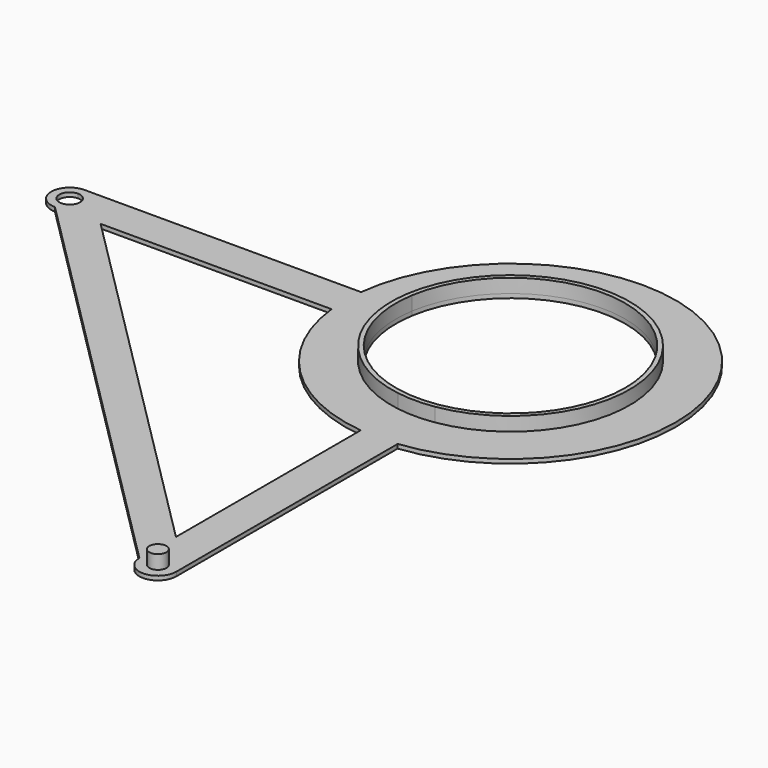
from build123d import *

# Parameters (mm, degrees)
F1_DEPTH = 0.9
F2_DEPTH = 3
F3_DEPTH = 3


with BuildPart() as f1:
    # F0 (on Top) → F1 (new body)
    with BuildSketch(Plane.XY):
        with BuildLine():
            Line((-35.5758344948, 4), (-95.5, 4))
            ThreePointArc((-95.5, 4), (-92.6715728753, 2.8284271247), (-91.5, 0))
            ThreePointArc((-91.5, 0), (-92.6715728753, -2.8284271247), (-95.5, -4))
            Line((-95.5, -4), (-85.6005050634, -4))
            Line((-85.6005050634, -4), (-35.5758344948, -4))
            ThreePointArc((-35.5758344948, -4), (-35.8, 0), (-35.5758344948, 4))
        make_face()
        with BuildLine():
            ThreePointArc((-95.5, 2.25), (-93.9090097423, 1.5909902577), (-93.25, 0))
            ThreePointArc((-93.25, 0), (-93.9090097423, -1.5909902577), (-95.5, -2.25))
            Line((-95.5, -2.25), (-95.5, -4))
            ThreePointArc((-95.5, -4), (-92.6715728753, -2.8284271247), (-91.5, 0))
            ThreePointArc((-91.5, 0), (-92.6715728753, 2.8284271247), (-95.5, 4))
            Line((-95.5, 4), (-95.5, 2.25))
        make_face()
        with BuildLine():
            ThreePointArc((-95.5, -2.25), (-97.75, 0), (-95.5, 2.25))
            Line((-95.5, 2.25), (-95.5, 4))
            ThreePointArc((-95.5, 4), (-99.5, 0), (-95.5, -4))
            Line((-95.5, -4), (-95.5, -2.25))
        make_face()
        Polygon((-85.6005050634, -4), (-95.5, -4), (-4, -95.5), (-4, -85.6005050634), align=None)
        with BuildLine():
            Line((-1.85, -95.5), (-4, -95.5))
            ThreePointArc((-4, -95.5), (0, -99.5), (4, -95.5))
            Line((4, -95.5), (1.85, -95.5))
            ThreePointArc((1.85, -95.5), (0, -97.35), (-1.85, -95.5))
        make_face()
        with BuildLine():
            ThreePointArc((4, -95.5), (0, -91.5), (-4, -95.5))
            Line((-4, -95.5), (-1.85, -95.5))
            ThreePointArc((-1.85, -95.5), (0, -93.65), (1.85, -95.5))
            Line((1.85, -95.5), (4, -95.5))
        make_face()
        with BuildLine():
            Line((1.85, -95.5), (-1.85, -95.5))
            ThreePointArc((-1.85, -95.5), (0, -97.35), (1.85, -95.5))
        make_face()
        with BuildLine():
            ThreePointArc((1.85, -95.5), (0, -93.65), (-1.85, -95.5))
            Line((-1.85, -95.5), (1.85, -95.5))
        make_face()
        with BuildLine():
            Line((-4, -85.6005050634), (-4, -95.5))
            ThreePointArc((-4, -95.5), (0, -91.5), (4, -95.5))
            Line((4, -95.5), (4, -35.5758344948))
            ThreePointArc((4, -35.5758344948), (0, -35.8), (-4, -35.5758344948))
            Line((-4, -35.5758344948), (-4, -85.6005050634))
        make_face()
        with BuildLine():
            Line((-25.4880364093, -4), (-35.5758344948, -4))
            ThreePointArc((-35.5758344948, -4), (-25.3144227665, -25.3144227665), (-4, -35.5758344948))
            Line((-4, -35.5758344948), (-4, -25.4880364093))
            ThreePointArc((-4, -25.4880364093), (-18.2433549546, -18.2433549546), (-25.4880364093, -4))
        make_face()
        with BuildLine():
            Line((-25.4880364093, 4), (-35.5758344948, 4))
            ThreePointArc((-35.5758344948, 4), (-35.8, 0), (-35.5758344948, -4))
            Line((-35.5758344948, -4), (-25.4880364093, -4))
            ThreePointArc((-25.4880364093, -4), (-25.8, 0), (-25.4880364093, 4))
        make_face()
        with BuildLine():
            ThreePointArc((35.8, 0), (2.0031381738, 35.7439146913), (-35.5758344948, 4))
            Line((-35.5758344948, 4), (-25.4880364093, 4))
            ThreePointArc((-25.4880364093, 4), (2.0060733587, 25.7218908652), (25.8, 0))
            ThreePointArc((25.8, 0), (19.6066315312, -16.7696153802), (4, -25.4880364093))
            Line((4, -25.4880364093), (4, -35.5758344948))
            ThreePointArc((4, -35.5758344948), (26.6911970507, -23.858331878), (35.8, 0))
        make_face()
        with BuildLine():
            ThreePointArc((-4, -35.5758344948), (0, -35.8), (4, -35.5758344948))
            Line((4, -35.5758344948), (4, -25.4880364093))
            ThreePointArc((4, -25.4880364093), (0, -25.8), (-4, -25.4880364093))
            Line((-4, -25.4880364093), (-4, -35.5758344948))
        make_face()
        with BuildLine():
            Line((-24.5158234616, -4), (-25.4880364093, -4))
            ThreePointArc((-25.4880364093, -4), (-18.2433549546, -18.2433549546), (-4, -25.4880364093))
            Line((-4, -25.4880364093), (-4, -24.5158234616))
            ThreePointArc((-4, -24.5158234616), (-17.5645324447, -17.5645324447), (-24.5158234616, -4))
        make_face()
        with BuildLine():
            Line((-24.5158234616, 4), (-25.4880364093, 4))
            ThreePointArc((-25.4880364093, 4), (-25.8, 0), (-25.4880364093, -4))
            Line((-25.4880364093, -4), (-24.5158234616, -4))
            ThreePointArc((-24.5158234616, -4), (-24.84, 0), (-24.5158234616, 4))
        make_face()
        with BuildLine():
            ThreePointArc((25.8, 0), (2.0060733587, 25.7218908652), (-25.4880364093, 4))
            Line((-25.4880364093, 4), (-24.5158234616, 4))
            ThreePointArc((-24.5158234616, 4), (2.0065574019, 24.7588232231), (24.84, 0))
            ThreePointArc((24.84, 0), (18.925982141, -16.0882814496), (4, -24.5158234616))
            Line((4, -24.5158234616), (4, -25.4880364093))
            ThreePointArc((4, -25.4880364093), (19.6066315312, -16.7696153802), (25.8, 0))
        make_face()
        with BuildLine():
            ThreePointArc((-4, -25.4880364093), (0, -25.8), (4, -25.4880364093))
            Line((4, -25.4880364093), (4, -24.5158234616))
            ThreePointArc((4, -24.5158234616), (0, -24.84), (-4, -24.5158234616))
            Line((-4, -24.5158234616), (-4, -25.4880364093))
        make_face()
    extrude(amount=-F1_DEPTH)

    # F0 (on Top) → F2 (join)
    with BuildSketch(Plane.XY):
        with BuildLine():
            ThreePointArc((25.8, 0), (2.0060733587, 25.7218908652), (-25.4880364093, 4))
            Line((-25.4880364093, 4), (-24.5158234616, 4))
            ThreePointArc((-24.5158234616, 4), (2.0065574019, 24.7588232231), (24.84, 0))
            ThreePointArc((24.84, 0), (18.925982141, -16.0882814496), (4, -24.5158234616))
            Line((4, -24.5158234616), (4, -25.4880364093))
            ThreePointArc((4, -25.4880364093), (19.6066315312, -16.7696153802), (25.8, 0))
        make_face()
        with BuildLine():
            Line((-24.5158234616, 4), (-25.4880364093, 4))
            ThreePointArc((-25.4880364093, 4), (-25.8, 0), (-25.4880364093, -4))
            Line((-25.4880364093, -4), (-24.5158234616, -4))
            ThreePointArc((-24.5158234616, -4), (-24.84, 0), (-24.5158234616, 4))
        make_face()
        with BuildLine():
            Line((-24.5158234616, -4), (-25.4880364093, -4))
            ThreePointArc((-25.4880364093, -4), (-18.2433549546, -18.2433549546), (-4, -25.4880364093))
            Line((-4, -25.4880364093), (-4, -24.5158234616))
            ThreePointArc((-4, -24.5158234616), (-17.5645324447, -17.5645324447), (-24.5158234616, -4))
        make_face()
        with BuildLine():
            ThreePointArc((-4, -25.4880364093), (0, -25.8), (4, -25.4880364093))
            Line((4, -25.4880364093), (4, -24.5158234616))
            ThreePointArc((4, -24.5158234616), (0, -24.84), (-4, -24.5158234616))
            Line((-4, -24.5158234616), (-4, -25.4880364093))
        make_face()
    extrude(amount=F2_DEPTH)

    # F0 (on Top) → F3 (join)
    with BuildSketch(Plane.XY):
        with BuildLine():
            ThreePointArc((1.85, -95.5), (0, -93.65), (-1.85, -95.5))
            Line((-1.85, -95.5), (1.85, -95.5))
        make_face()
        with BuildLine():
            Line((1.85, -95.5), (-1.85, -95.5))
            ThreePointArc((-1.85, -95.5), (0, -97.35), (1.85, -95.5))
        make_face()
    extrude(amount=F3_DEPTH)


solid = f1.part
